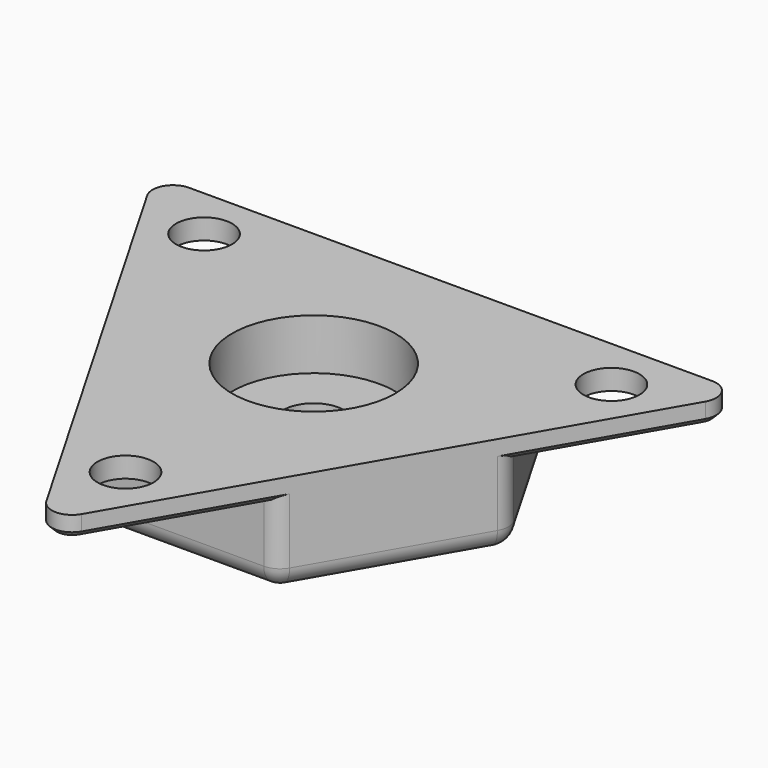
from build123d import *

# Parameters (mm, degrees)
F0_R     = 2.75
F0_R_2   = 3
F1_DEPTH = 9.9
F2_DEPTH = 7.9
F3_R     = 8
F3_R_2   = 3
F4_DEPTH = 5
F5_R     = 2
F6_SIZE  = 0.5


with BuildPart() as f1:
    # F0 (on Top) → F1 (new body)
    with BuildSketch(Plane.XY):
        Polygon((-9.7113248654, -16.8205080757), (0, -33.6410161514), (9.7113248654, -16.8205080757), align=None)
        with Locations((0, -23.0940107676)):
            Circle(F0_R, mode=Mode.SUBTRACT)
        Polygon((-19.4226497308, 0), (-9.7113248654, -16.8205080757), (9.7113248654, -16.8205080757), (19.4226497308, 0), (9.7113248654, 16.8205080757), (-9.7113248654, 16.8205080757), align=None)
        Circle(F0_R_2, mode=Mode.SUBTRACT)
        Polygon((-29.1339745962, 16.8205080757), (-19.4226497308, 0), (-9.7113248654, 16.8205080757), align=None)
        with Locations((-20, 11.5470053838)):
            Circle(F0_R, mode=Mode.SUBTRACT)
        Polygon((9.7113248654, 16.8205080757), (19.4226497308, 0), (29.1339745962, 16.8205080757), align=None)
        with Locations((20, 11.5470053838)):
            Circle(F0_R, mode=Mode.SUBTRACT)
    extrude(amount=F1_DEPTH)

    # F0 (on Top) → F2 (cut)
    with BuildSketch(Plane.XY):
        Polygon((9.7113248654, 16.8205080757), (19.4226497308, 0), (29.1339745962, 16.8205080757), align=None)
        with Locations((20, 11.5470053838)):
            Circle(F0_R, mode=Mode.SUBTRACT)
        Polygon((-9.7113248654, -16.8205080757), (0, -33.6410161514), (9.7113248654, -16.8205080757), align=None)
        with Locations((0, -23.0940107676)):
            Circle(F0_R, mode=Mode.SUBTRACT)
        Polygon((-29.1339745962, 16.8205080757), (-19.4226497308, 0), (-9.7113248654, 16.8205080757), align=None)
        with Locations((-20, 11.5470053838)):
            Circle(F0_R, mode=Mode.SUBTRACT)
    extrude(amount=F2_DEPTH, mode=Mode.SUBTRACT)

    # F3 (on face) → F4 (cut)
    with BuildSketch(Plane.XY.offset(9.9)):
        Circle(F3_R)
        Circle(F3_R_2, mode=Mode.SUBTRACT)
    extrude(amount=-F4_DEPTH, mode=Mode.SUBTRACT)

    # F5
    f5_edges = [f1.edges().sort_by_distance(p)[0] for p in [
        (-29.133975, 16.820508, 8.9),
        (-9.711325, 16.820508, 3.95),
        (-19.42265, 0, 3.95),
        (9.711325, 16.820508, 3.95),
        (14.566987, 8.410254, 0),
        (0, 16.820508, 0),
        (-14.566987, 8.410254, 0),
        (-14.566987, -8.410254, 0),
        (0, -16.820508, 0),
        (19.42265, 0, 3.95),
        (9.711325, -16.820508, 3.95),
        (0, -33.641016, 8.9),
        (29.133975, 16.820508, 8.9),
        (-9.711325, -16.820508, 3.95),
        (14.566987, -8.410254, 0),
    ]]
    fillet(f5_edges, radius=F5_R)

    # F6
    f6_edges = [f1.edges().sort_by_distance(p)[0] for p in [
        (0, -31.641016, 7.9),
        (-27.401924, 15.820508, 7.9),
        (27.401924, 15.820508, 7.9),
    ]]
    chamfer(f6_edges, length=F6_SIZE)


solid = f1.part
